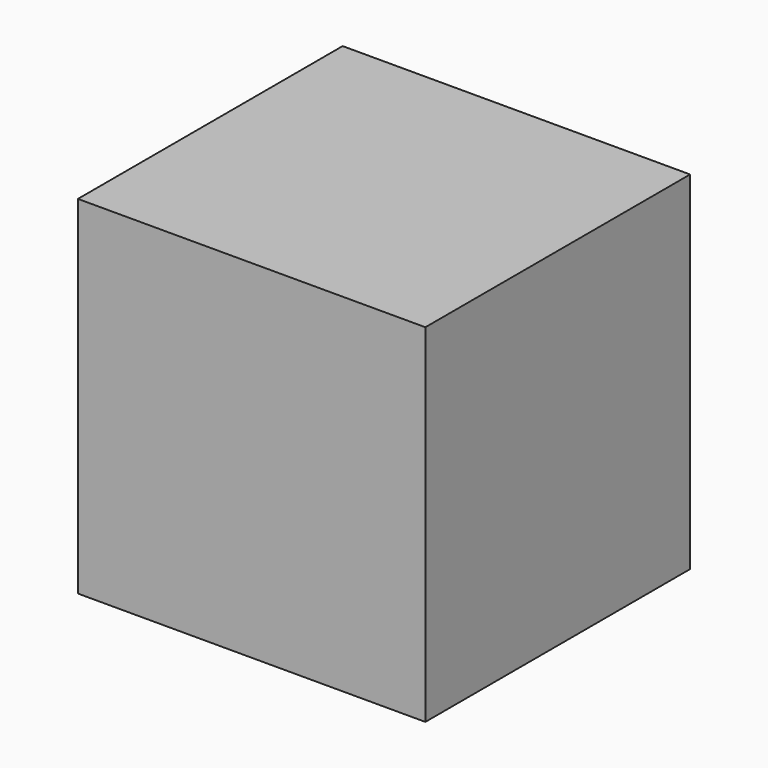
from build123d import *

# Parameters (mm, degrees)
F1_DEPTH = 40
F2_R     = 2.35
F3_DEPTH = 19


with BuildPart() as f1:
    # F0 (on Front) → F1 (new body)
    with BuildSketch(Plane.XZ):
        Polygon((-21, 21), (-21, 0), (-21, -21), (0, -21), (21, -21), (21, 0), (21, 21), (0, 21), align=None)
    extrude(amount=F1_DEPTH)

    # F2 (on face) → F3 (join)
    with BuildSketch(Plane(origin=(0, 0, 0), x_dir=(-1, 0, 0), z_dir=(0, 1, 0))):
        Circle(F2_R)
    extrude(amount=F3_DEPTH)


solid = f1.part
